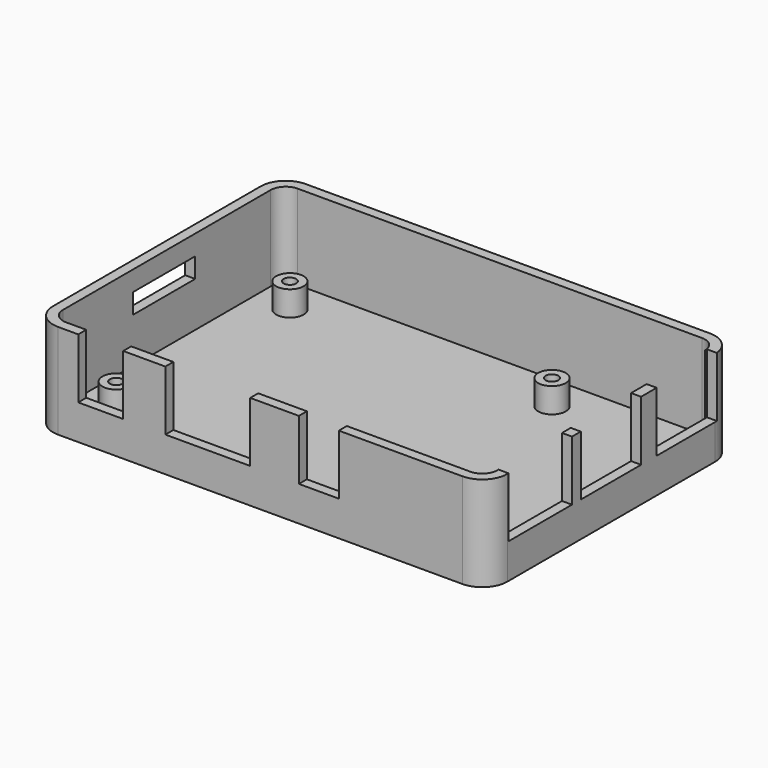
from build123d import *

# Parameters (mm, degrees)
F1_DEPTH = 2
F2_DEPTH = 19
F3_R     = 2.75
F3_R_2   = 1.25
F4_DEPTH = 5
F5_W     = 9
F5_H     = 2
F5_W_2   = 2
F5_H_2   = 15.1
F5_W_3   = 17
F5_W_4   = 8
F5_H_3   = 15.9
F6_DEPTH = 12
F7_W     = 15.6
F7_H     = 4
F8_DEPTH = 25


with BuildPart() as f1:
    # F0 (on Top) → F1 (new body)
    with BuildSketch(Plane.XY):
        with BuildLine():
            ThreePointArc((0, 5), (1.4644660941, 1.4644660941), (5, 0))
            Line((5, 0), (86, 0))
            ThreePointArc((86, 0), (89.5355339059, 1.4644660941), (91, 5))
            Line((91, 5), (91, 57))
            ThreePointArc((91, 57), (89.5355339059, 60.5355339059), (86, 62))
            Line((86, 62), (5, 62))
            ThreePointArc((5, 62), (1.4644660941, 60.5355339059), (0, 57))
            Line((0, 57), (0, 5))
        make_face()
        with BuildLine():
            ThreePointArc((2, 57), (2.8786796564, 59.1213203436), (5, 60))
            Line((5, 60), (86, 60))
            ThreePointArc((86, 60), (88.1213203436, 59.1213203436), (89, 57))
            Line((89, 57), (89, 5))
            ThreePointArc((89, 5), (88.1213203436, 2.8786796564), (86, 2))
            Line((86, 2), (5, 2))
            ThreePointArc((5, 2), (2.8786796564, 2.8786796564), (2, 5))
            Line((2, 5), (2, 57))
        make_face(mode=Mode.SUBTRACT)
        with BuildLine():
            Line((86, 60), (5, 60))
            ThreePointArc((5, 60), (2.8786796564, 59.1213203436), (2, 57))
            Line((2, 57), (2, 5))
            ThreePointArc((2, 5), (2.8786796564, 2.8786796564), (5, 2))
            Line((5, 2), (86, 2))
            ThreePointArc((86, 2), (88.1213203436, 2.8786796564), (89, 5))
            Line((89, 5), (89, 57))
            ThreePointArc((89, 57), (88.1213203436, 59.1213203436), (86, 60))
        make_face()
    extrude(amount=F1_DEPTH)

    # F0 (on Top) → F2 (join)
    with BuildSketch(Plane.XY):
        with BuildLine():
            ThreePointArc((0, 5), (1.4644660941, 1.4644660941), (5, 0))
            Line((5, 0), (86, 0))
            ThreePointArc((86, 0), (89.5355339059, 1.4644660941), (91, 5))
            Line((91, 5), (91, 57))
            ThreePointArc((91, 57), (89.5355339059, 60.5355339059), (86, 62))
            Line((86, 62), (5, 62))
            ThreePointArc((5, 62), (1.4644660941, 60.5355339059), (0, 57))
            Line((0, 57), (0, 5))
        make_face()
        with BuildLine():
            ThreePointArc((2, 57), (2.8786796564, 59.1213203436), (5, 60))
            Line((5, 60), (86, 60))
            ThreePointArc((86, 60), (88.1213203436, 59.1213203436), (89, 57))
            Line((89, 57), (89, 5))
            ThreePointArc((89, 5), (88.1213203436, 2.8786796564), (86, 2))
            Line((86, 2), (5, 2))
            ThreePointArc((5, 2), (2.8786796564, 2.8786796564), (2, 5))
            Line((2, 5), (2, 57))
        make_face(mode=Mode.SUBTRACT)
    extrude(amount=F2_DEPTH)

    # F3 (on face) → F4 (join)
    with BuildSketch(Plane.XY.offset(2)):
        with Locations((9.25, 52.75)):
            Circle(F3_R)
        with Locations((9.25, 52.75)):
            Circle(F3_R_2, mode=Mode.SUBTRACT)
        with Locations((9.25, 9.25)):
            Circle(F3_R)
        with Locations((9.25, 9.25)):
            Circle(F3_R_2, mode=Mode.SUBTRACT)
        with Locations((61.75, 9.25)):
            Circle(F3_R)
        with Locations((61.75, 9.25)):
            Circle(F3_R_2, mode=Mode.SUBTRACT)
        with Locations((61.75, 52.75)):
            Circle(F3_R)
        with Locations((61.75, 52.75)):
            Circle(F3_R_2, mode=Mode.SUBTRACT)
    extrude(amount=F4_DEPTH)

    # F5 (on face) → F6 (cut)
    with BuildSketch(Plane.XY.offset(19)):
        with Locations((13.55, 1)):
            Rectangle(F5_W, F5_H)
        with Locations((90, 49.95)):
            Rectangle(F5_W_2, F5_H_2)
        with Locations((35, 1)):
            Rectangle(F5_W_3, F5_H)
        with Locations((57.25, 1)):
            Rectangle(F5_W_4, F5_H)
        with Locations((90, 13.25)):
            Rectangle(F5_W_2, F5_H_3)
        with Locations((90, 30.95)):
            Rectangle(F5_W_2, F5_H_2)
    extrude(amount=-F6_DEPTH, mode=Mode.SUBTRACT)

    # F7 (on face) → F8 (cut)
    with BuildSketch(Plane(origin=(0, 0, 0), x_dir=(0, -1, 0), z_dir=(-1, 0, 0))):
        with Locations((-30.3, 13)):
            Rectangle(F7_W, F7_H)
    extrude(amount=-F8_DEPTH, mode=Mode.SUBTRACT)


solid = f1.part
